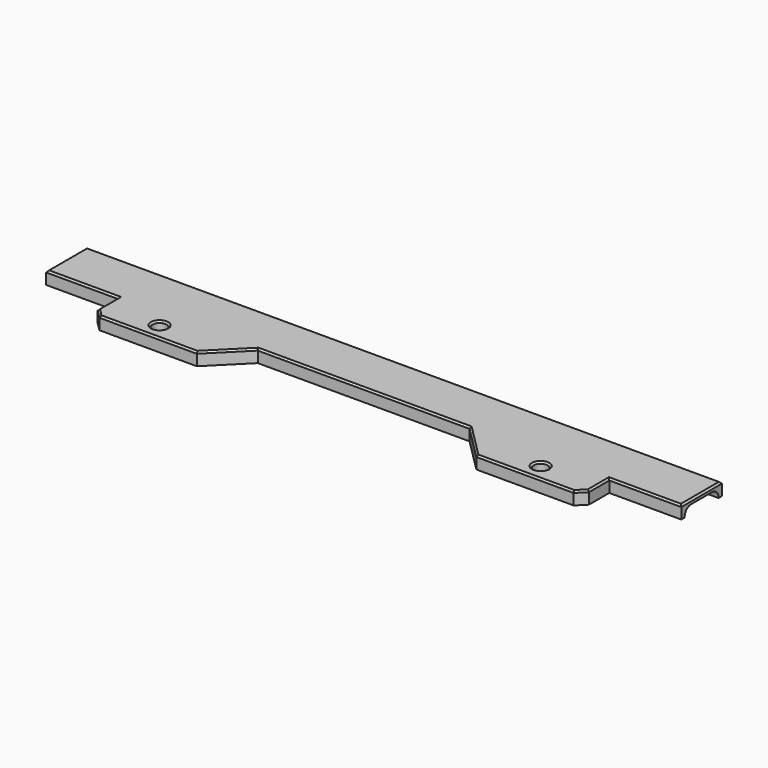
from build123d import *

# Parameters (mm, degrees)
SKETCH011_R     = 1.65
PAD005_DEPTH    = 3
SKETCH012_W     = 10
SKETCH012_H     = 2
POCKET007_DEPTH = 150.001
FILLET002_R     = 1.9
CHAMFER009_SIZE = 2
CHAMFER010_SIZE = 0.4


with BuildPart() as part:
    # Sketch011 (on Face1 of CopyChamfer008) → Pad005 (new body)
    with BuildSketch(Plane.XY.offset(-3.5)):
        Polygon((130, 0), (-20, 0), (-20, -12), (-3, -12), (-3, -20), (22, -20), (30, -12), (80, -12), (88, -20), (113, -20), (113, -12), (130, -12), align=None)
        with Locations((10, -16)):
            Circle(SKETCH011_R, mode=Mode.SUBTRACT)
        with Locations((100, -16)):
            Circle(SKETCH011_R, mode=Mode.SUBTRACT)
    extrude(amount=PAD005_DEPTH)

    # Sketch012 (on Face2 of Pad005) → Pocket007 (cut, through all)
    with BuildSketch(Plane(origin=(-20, 0, 0), x_dir=(0, -1, 0), z_dir=(-1, 0, 0))):
        with Locations((6, -2.5)):
            Rectangle(SKETCH012_W, SKETCH012_H)
    extrude(amount=-POCKET007_DEPTH, mode=Mode.SUBTRACT)

    # Fillet002
    fillet002_edges = [part.edges().sort_by_distance(p)[0] for p in [
        (55, -1, -1.5),
        (55, -11, -1.5),
    ]]
    fillet(fillet002_edges, radius=FILLET002_R)

    # Chamfer009
    chamfer009_edges = [part.edges().sort_by_distance(p)[0] for p in [
        (-3, -20, -2),
        (113, -20, -2),
    ]]
    chamfer(chamfer009_edges, length=CHAMFER009_SIZE)

    # Chamfer010
    chamfer010_edges = [part.edges().sort_by_distance(p)[0] for p in [
        (-3, -15, -0.5),
        (-2, -19, -0.5),
        (-11.5, -12, -0.5),
        (10.5, -20, -0.5),
        (-20, -6, -0.5),
        (26, -16, -0.5),
        (55, 0, -0.5),
        (55, -12, -0.5),
        (130, -6, -0.5),
        (84, -16, -0.5),
        (121.5, -12, -0.5),
        (99.5, -20, -0.5),
        (113, -15, -0.5),
        (112, -19, -0.5),
        (8.35, -16, -0.5),
        (98.35, -16, -0.5),
        (8.35, -16, -3.5),
        (98.35, -16, -3.5),
    ]]
    chamfer(chamfer010_edges, length=CHAMFER010_SIZE)


solid = part.part
